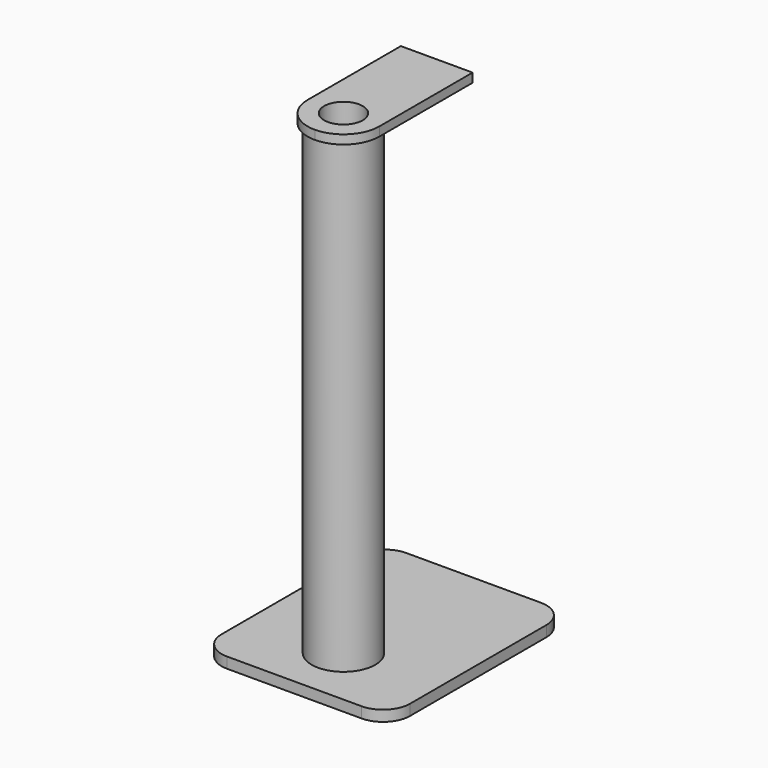
from build123d import *

# Parameters (mm, degrees)
F0_R     = 35.5
F0_R_2   = 21.5
F1_DEPTH = 12
F2_DEPTH = 520
F3_R     = 35.5
F3_R_2   = 21.5
F4_DEPTH = 10


with BuildPart() as f1:
    # F0 (on Top) → F1 (new body)
    with BuildSketch(Plane.XY):
        with BuildLine():
            Line((75, 181.5), (-75, 181.5))
            ThreePointArc((-75, 181.5), (-96.213203, 172.713203), (-105, 151.5))
            Line((-105, 151.5), (-105, -38.5))
            ThreePointArc((-105, -38.5), (-96.213203, -59.713203), (-75, -68.5))
            Line((-75, -68.5), (75, -68.5))
            ThreePointArc((75, -68.5), (96.213203, -59.713203), (105, -38.5))
            Line((105, -38.5), (105, 151.5))
            ThreePointArc((105, 151.5), (96.213203, 172.713203), (75, 181.5))
        make_face()
        Circle(F0_R, mode=Mode.SUBTRACT)
        Circle(F0_R)
        Circle(F0_R_2, mode=Mode.SUBTRACT)
        Circle(F0_R_2)
    extrude(amount=-F1_DEPTH)

    # F0 (on Top) → F2 (join)
    with BuildSketch(Plane.XY):
        Circle(F0_R)
        Circle(F0_R_2, mode=Mode.SUBTRACT)
    extrude(amount=F2_DEPTH)

    # F3 (on face) → F4 (join)
    with BuildSketch(Plane.XY.offset(520)):
        with BuildLine():
            Line((40, 130), (-40, 130))
            Line((-40, 130), (-40, 0))
            ThreePointArc((-40, 0), (-28.284271, -28.284271), (0, -40))
            ThreePointArc((0, -40), (28.284271, -28.284271), (40, 0))
            Line((40, 0), (40, 130))
        make_face()
        Circle(F3_R, mode=Mode.SUBTRACT)
        Circle(F3_R)
        Circle(F3_R_2, mode=Mode.SUBTRACT)
    extrude(amount=F4_DEPTH)


solid = f1.part
